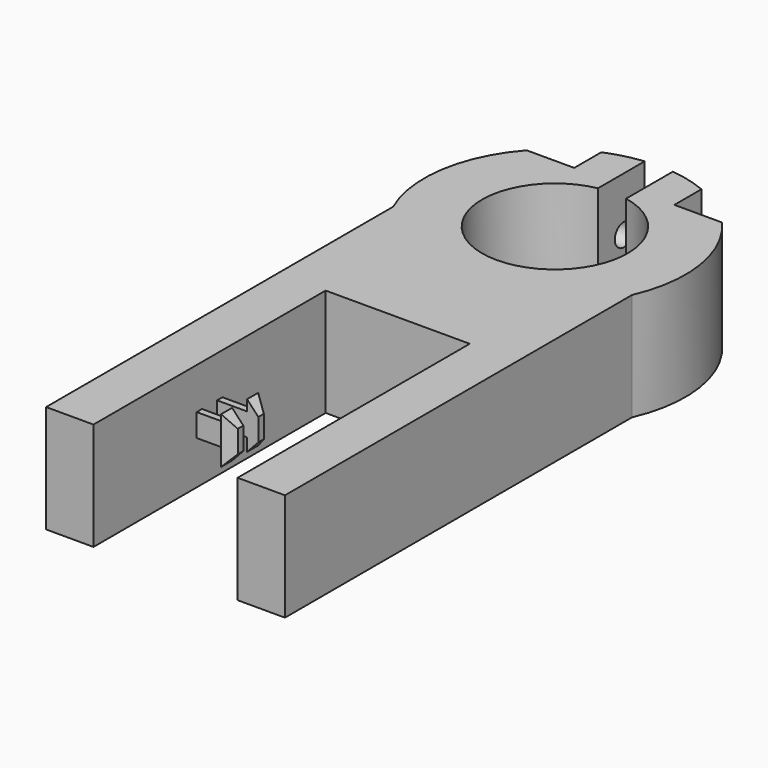
from build123d import *

# Parameters (mm, degrees)
F1_DEPTH = 41.91
F3_DEPTH = 132.842
F4_R     = 4.349558
F5_DEPTH = 93


with BuildPart() as f1:
    # F0 (on Top) → F1 (new body)
    with BuildSketch(Plane.XY):
        with BuildLine():
            ThreePointArc((5.462832, 27.789144), (0, -28.321), (-5.462832, 27.789144))
            Line((-5.462832, 27.789144), (-5.462832, 50.50542))
            ThreePointArc((-5.462832, 50.50542), (-12.596589, 49.213473), (-19.473793, 46.919201))
            Line((-19.473793, 46.919201), (-19.473793, 33.741264))
            Line((-19.473793, 33.741264), (-37.975875, 33.741264))
            ThreePointArc((-37.975875, 33.741264), (-50.191445, 7.839567), (-46.456356, -20.553516))
            Line((-46.456356, -20.553516), (-46.456356, -189.292356))
            Line((-46.456356, -189.292356), (-28.022196, -189.292356))
            Line((-28.022196, -189.292356), (-28.022196, -139.108405))
            Line((-28.022196, -139.108405), (-16.363064, -139.108405))
            Line((-16.363064, -139.108405), (-16.363064, -141.895995))
            Line((-16.363064, -141.895995), (-11.980078, -139.198765))
            Line((-11.980078, -139.198765), (-11.980078, -136.501536))
            Line((-11.980078, -136.501536), (-16.363064, -136.501536))
            Line((-16.363064, -136.501536), (-28.022196, -136.501536))
            Line((-28.022196, -136.501536), (-28.022196, -129.22018))
            Line((-28.022196, -129.22018), (-16.363064, -129.22018))
            Line((-16.363064, -129.22018), (-11.980078, -129.22018))
            Line((-11.980078, -129.22018), (-11.980078, -126.522951))
            Line((-11.980078, -126.522951), (-16.363064, -123.825721))
            Line((-16.363064, -123.825721), (-16.363064, -126.613311))
            Line((-16.363064, -126.613311), (-28.022196, -126.613311))
            Line((-28.022196, -126.613311), (-28.022196, -76.42936))
            Line((-28.022196, -76.42936), (0, -76.42936))
            Line((0, -76.42936), (28.022196, -76.42936))
            Line((28.022196, -76.42936), (28.022196, -126.613311))
            Line((28.022196, -126.613311), (16.363064, -126.613311))
            Line((16.363064, -126.613311), (16.363064, -123.825721))
            Line((16.363064, -123.825721), (11.980078, -126.522951))
            Line((11.980078, -126.522951), (11.980078, -129.22018))
            Line((11.980078, -129.22018), (16.363064, -129.22018))
            Line((16.363064, -129.22018), (28.022196, -129.22018))
            Line((28.022196, -129.22018), (28.022196, -136.501536))
            Line((28.022196, -136.501536), (16.363064, -136.501536))
            Line((16.363064, -136.501536), (11.980078, -136.501536))
            Line((11.980078, -136.501536), (11.980078, -139.198765))
            Line((11.980078, -139.198765), (16.363064, -141.895995))
            Line((16.363064, -141.895995), (16.363064, -139.108405))
            Line((16.363064, -139.108405), (28.022196, -139.108405))
            Line((28.022196, -139.108405), (28.022196, -189.292356))
            Line((28.022196, -189.292356), (46.456356, -189.292356))
            Line((46.456356, -189.292356), (46.456356, -20.553516))
            ThreePointArc((46.456356, -20.553516), (50.191445, 7.839567), (37.975875, 33.741264))
            Line((37.975875, 33.741264), (19.473793, 33.741264))
            Line((19.473793, 33.741264), (19.473793, 46.919201))
            ThreePointArc((19.473793, 46.919201), (12.596589, 49.213473), (5.462832, 50.50542))
            Line((5.462832, 50.50542), (5.462832, 27.789144))
        make_face()
    extrude(amount=F1_DEPTH)

    # F2 (on face) → F3 (cut)
    with BuildSketch(Plane.XZ.offset(76.42936)):
        Polygon((-28.022196, 41.91), (-28.022196, 29.9847), (-28.022196, 25.780085), (-16.324459, 25.780085), (-16.324459, 29.9847), (-11.689119, 24.990531), (12.092193, 24.990531), (16.324459, 29.757692), (16.324459, 25.780085), (28.022196, 25.780085), (28.022196, 29.9847), (28.022196, 41.91), align=None)
        Polygon((-16.324459, 16.899664), (-28.022196, 16.899664), (-28.022196, 11.9253), (-28.022196, 0), (0, 0), (28.022196, 0), (28.022196, 11.9253), (28.022196, 16.899664), (16.324459, 16.899664), (16.324459, 12.152308), (12.092193, 16.919469), (-11.689119, 16.919469), (-16.324459, 11.9253), align=None)
    extrude(amount=F3_DEPTH, mode=Mode.SUBTRACT)

    # F4 (on face) → F5 (cut)
    with BuildSketch(Plane.YZ.offset(19.473793)):
        with Locations((40.330232, 20.955)):
            Circle(F4_R)
    extrude(amount=-F5_DEPTH, mode=Mode.SUBTRACT)


solid = f1.part
